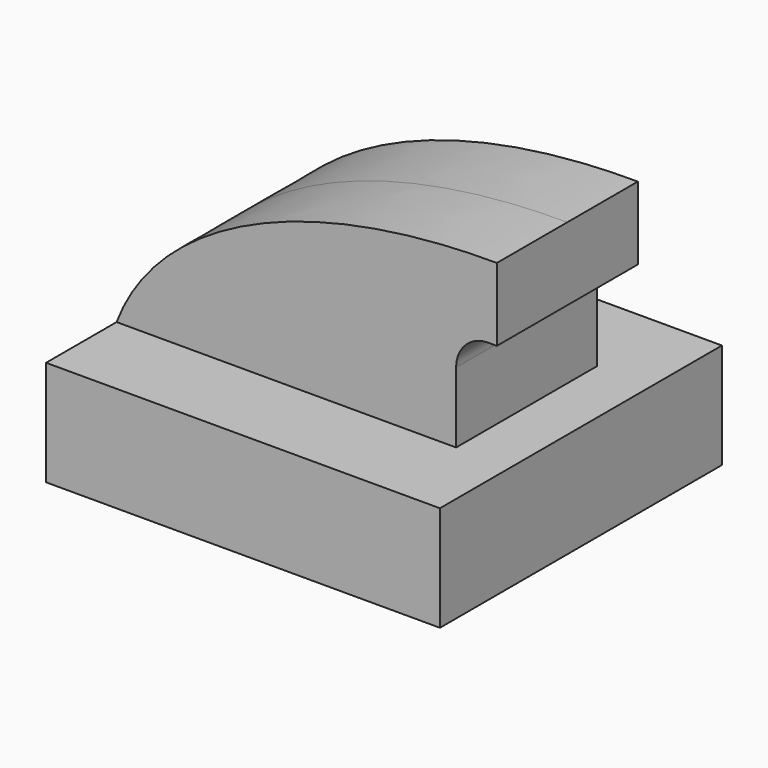
from build123d import *

# Parameters (mm, degrees)
F1_DEPTH      = 50.8
F1_DEPTH_BACK = 50.8
F2_DEPTH      = 25.4
F2_DEPTH_BACK = 25.4


with BuildPart() as f1:
    # F0 (on Front) → F1 (new body, two sides)
    with BuildSketch(Plane.XZ) as f1_sk:
        Polygon((-56.765504, 15.170092), (-56.765504, -15.170092), (56.765504, -15.170092), (56.765504, 15.170092), (41.106056, 15.170092), align=None)
    extrude(amount=F1_DEPTH)
    extrude(f1_sk.sketch, amount=-F1_DEPTH_BACK)

    # F0 (on Front) → F2 (join, two sides)
    with BuildSketch(Plane.XZ) as f2_sk:
        with BuildLine():
            add(Edge.make_bspline(
                [(-56.765504, 15.170092), (-45.020919, 46.244312), (-2.936146, 66.0633), (52.850641, 65.818623)],
                knots=[0, 0, 0, 0, 120.7517, 120.7517, 120.7517, 120.7517], degree=3))
            Line((-56.765504, 15.170092), (41.106056, 15.170092))
            Line((41.106056, 15.170092), (41.106056, 35.478443))
            ThreePointArc((41.106056, 35.478443), (43.657819, 41.882302), (49.914498, 44.776239))
            Line((49.914498, 44.776239), (52.850641, 44.776239))
            Line((52.850641, 44.776239), (52.850641, 65.818623))
        make_face()
    extrude(amount=F2_DEPTH)
    extrude(f2_sk.sketch, amount=-F2_DEPTH_BACK)


solid = f1.part
